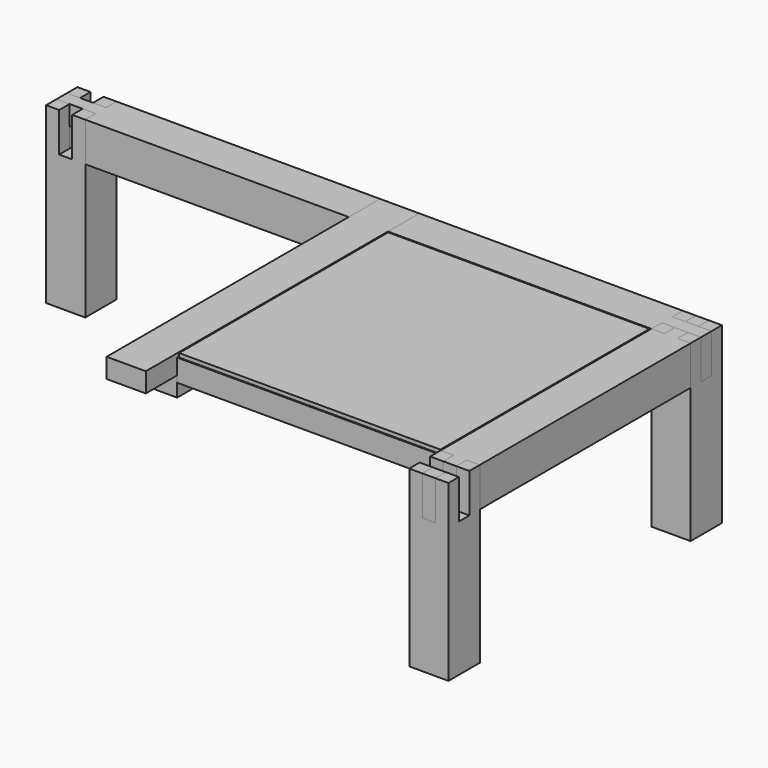
from build123d import *

# Parameters (mm, degrees)
SKETCH004_W              = 90
SKETCH004_H              = 785
PAD002_DEPTH             = 90
SKETCH005_W              = 90
SKETCH005_H              = 45
POCKET002_DEPTH          = 90.001
SKETCH009_W              = 600
SKETCH009_H              = 600
PAD004_DEPTH             = 9
SKETCH_W                 = 90
SKETCH_H                 = 90
PAD_DEPTH                = 400
POCKET_DEPTH             = 90
PAD001_DEPTH             = 90
SKETCH003_W              = 30
SKETCH003_H              = 45
POCKET001_DEPTH          = 90.001
PAD003_DEPTH             = 90
SKETCH007_W              = 30
SKETCH007_H              = 45
POCKET003_DEPTH          = 90.001
SKETCH008_W              = 90
SKETCH008_H              = 90
POCKET004_DEPTH          = 45
PAD005_DEPTH             = 50.8
CLONE006_PLACEMENT_ANGLE = 180
CLONE007_PLACEMENT_ANGLE = 90
CLONE008_PLACEMENT_ANGLE = 90


with BuildPart() as middle01:
    # Sketch004 → Pad002 (new body)
    with BuildSketch(Plane.XY.offset(310)):
        with Locations((695, 347.5)):
            Rectangle(SKETCH004_W, SKETCH004_H)
    extrude(amount=PAD002_DEPTH)

    # Sketch005 (on Face2 of Pad002) → Pocket002 (cut, through all)
    with BuildSketch(Plane.YZ.offset(740)):
        with Locations((0, 332.5)):
            Rectangle(SKETCH005_W, SKETCH005_H)
        with Locations((695, 332.5)):
            Rectangle(SKETCH005_W, SKETCH005_H)
    extrude(amount=-POCKET002_DEPTH, mode=Mode.SUBTRACT)


with BuildPart() as obj1:
    # Sketch009 → Pad004 (new body)
    with BuildSketch(Plane.XY.offset(391)):
        with Locations((347.5, 347.5)):
            Rectangle(SKETCH009_W, SKETCH009_H)
    extrude(amount=PAD004_DEPTH)


with BuildPart() as obj1_1:
    # Clone placement: moved
    add(obj1.part.moved(Location((695, 0, 0))))


with BuildPart() as obj2:
    # Sketch → Pad (new body)
    with BuildSketch(Plane.XY):
        Rectangle(SKETCH_W, SKETCH_H)
    extrude(amount=PAD_DEPTH)

    # Sketch001 (on Face6 of Pad) → Pocket (cut)
    with BuildSketch(Plane.XY.offset(400)):
        Polygon((-15, 45), (15, 45), (15, 15), (45, 15), (45, -15), (15, -15), (15, -45), (-15, -45), (-15, -15), (-45, -15), (-45, 15), (-15, 15), align=None)
    extrude(amount=-POCKET_DEPTH, mode=Mode.SUBTRACT)


with BuildPart() as obj3:
    # Body036 base: copy of obj2
    add(obj2.part)


with BuildPart() as obj3_1:
    # Clone001 placement: moved
    add(obj3.part.moved(Location((0, 695, 0))))


with BuildPart() as obj4:
    # Body037 base: copy of obj2
    add(obj2.part)


with BuildPart() as obj4_1:
    # Clone002 placement: moved
    add(obj4.part.moved(Location((1390, 0, 0))))


with BuildPart() as obj5:
    # Body038 base: copy of obj2
    add(obj2.part)


with BuildPart() as obj5_1:
    # Clone003 placement: moved
    add(obj5.part.moved(Location((1390, 695, 0))))


with BuildPart() as short02:
    # Sketch002 → Pad001 (new body)
    with BuildSketch(Plane.XY.offset(310)):
        Polygon((-15, 740), (15, 740), (15, 650), (45, 650), (45, 45), (15, 45), (15, -45), (-15, -45), (-15, 45), (-45, 45), (-45, 650), (-15, 650), align=None)
    extrude(amount=PAD001_DEPTH)

    # Sketch003 (on Face4 of Pad001) → Pocket001 (cut, through all)
    with BuildSketch(Plane.YZ.offset(45)):
        with Locations((0, 377.5)):
            Rectangle(SKETCH003_W, SKETCH003_H)
        with Locations((695, 377.5)):
            Rectangle(SKETCH003_W, SKETCH003_H)
    extrude(amount=-POCKET001_DEPTH, mode=Mode.SUBTRACT)


with BuildPart() as short02_1:
    # Clone004 placement: moved
    add(short02.part.moved(Location((1390, 0, 0))))


with BuildPart() as long02:
    # Sketch006 → Pad003 (new body)
    with BuildSketch(Plane.XY.offset(310)):
        Polygon((45, 45), (1345, 45), (1345, 15), (1435, 15), (1435, -15), (1345, -15), (1345, -45), (45, -45), (45, -15), (-45, -15), (-45, 15), (45, 15), align=None)
    extrude(amount=PAD003_DEPTH)

    # Sketch007 (on Face7 of Pad003) → Pocket003 (cut, through all)
    with BuildSketch(Plane.XZ.offset(45)):
        with Locations((0, 332.5)):
            Rectangle(SKETCH007_W, SKETCH007_H)
        with Locations((1390, 332.5)):
            Rectangle(SKETCH007_W, SKETCH007_H)
    extrude(amount=-POCKET003_DEPTH, mode=Mode.SUBTRACT)

    # Sketch008 (on Face5 of Pocket003) → Pocket004 (cut)
    with BuildSketch(Plane.XY.offset(400)):
        with Locations((695, 0)):
            Rectangle(SKETCH008_W, SKETCH008_H)
    extrude(amount=-POCKET004_DEPTH, mode=Mode.SUBTRACT)


with BuildPart() as long02_1:
    # Clone005 placement: moved
    add(long02.part.moved(Location((0, 695, 0))))


with BuildPart() as support01:
    # Sketch010 → Pad005 (new body)
    with BuildSketch(Plane.XY.offset(391)):
        Polygon((45, 650), (45, 45), (70.4, 70.4), (70.4, 624.6), align=None)
    extrude(amount=-PAD005_DEPTH)


with BuildPart() as support05:
    # Body044 base: copy of support01
    add(support01.part)


with BuildPart() as support05_1:
    # Clone009 placement: moved
    add(support05.part.moved(Location((695, 0, 0))))


with BuildPart() as support06:
    # Body041 base: copy of support01
    add(support01.part)


with BuildPart() as support06_1:
    # Clone006 placement: moved
    add(support06.part.moved(Location((695, 695, 0))).rotate(Axis((695, 695, 0), (0, 0, 1)), CLONE006_PLACEMENT_ANGLE))


with BuildPart() as support06_2:
    # Clone010 placement: moved
    add(support06_1.part.moved(Location((695, 0, 0))))


with BuildPart() as support07:
    # Body042 base: copy of support01
    add(support01.part)


with BuildPart() as support07_1:
    # Clone007 placement: moved
    add(support07.part.moved(Location((695, 0, 0))).rotate(Axis((695, 0, 0), (0, 0, 1)), CLONE007_PLACEMENT_ANGLE))


with BuildPart() as support07_2:
    # Clone011 placement: moved
    add(support07_1.part.moved(Location((695, 0, 0))))


with BuildPart() as support08:
    # Body043 base: copy of support01
    add(support01.part)


with BuildPart() as support08_1:
    # Clone008 placement: moved
    add(support08.part.moved(Location((5, 695, 0))).rotate(Axis((5, 695, 0), (0, 0, -1)), CLONE008_PLACEMENT_ANGLE))


with BuildPart() as support08_2:
    # Clone012 placement: moved
    add(support08_1.part.moved(Location((695, 0, 0))))


solid = Compound([middle01.part, obj1_1.part, obj3_1.part, obj4_1.part, obj5_1.part, short02_1.part, long02_1.part, support05_1.part, support06_2.part, support07_2.part, support08_2.part])
